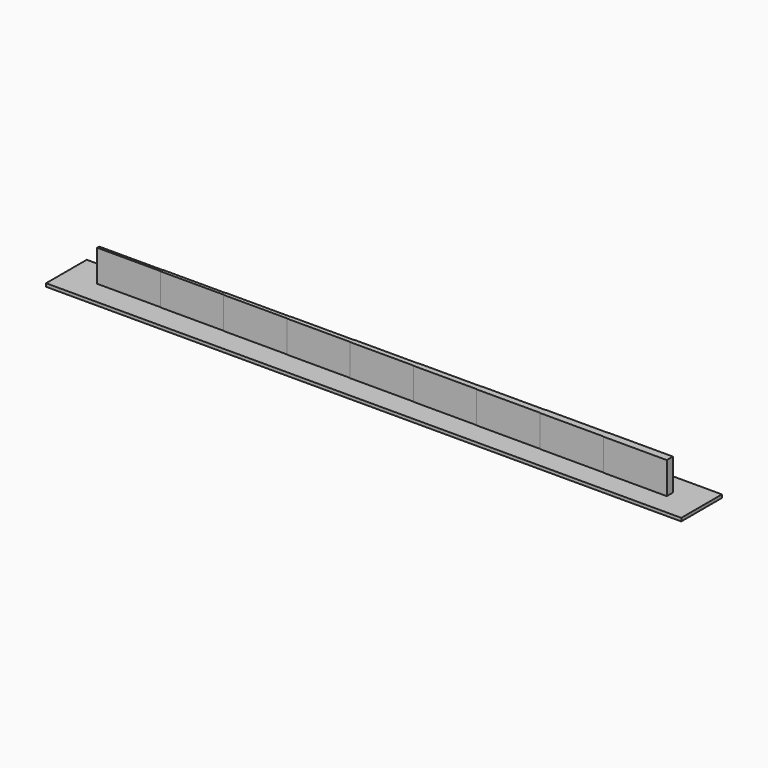
from build123d import *

# Parameters (mm, degrees)
SKETCH_W     = 100
SKETCH_H     = 8
PAD_DEPTH    = 0.5
PAD001_DEPTH = 5


with BuildPart() as part:
    # Sketch → Pad (new body)
    with BuildSketch(Plane.XY):
        with Locations((50, 4)):
            Rectangle(SKETCH_W, SKETCH_H)
    extrude(amount=PAD_DEPTH)

    # Sketch001 (on Face6 of Pad) → Pad001 (join)
    with BuildSketch(Plane.XY.offset(0.5)):
        Polygon((5, 4.2), (5, 3.8), (15, 3.8), (15, 3.75), (25, 3.75), (25, 3.7), (35, 3.7), (35, 3.65), (45, 3.65), (45, 3.6), (55, 3.6), (55, 3.55), (65, 3.55), (65, 3.5), (75, 3.5), (75, 3.45), (85, 3.45), (85, 3.4), (95, 3.4), (95, 4.6), (85, 4.6), (85, 4.55), (75, 4.55), (75, 4.5), (65, 4.5), (65, 4.45), (55, 4.45), (55, 4.4), (45, 4.4), (45, 4.35), (35, 4.35), (35, 4.3), (25, 4.3), (25, 4.25), (15, 4.25), (15, 4.2), align=None)
    extrude(amount=PAD001_DEPTH)


solid = part.part
